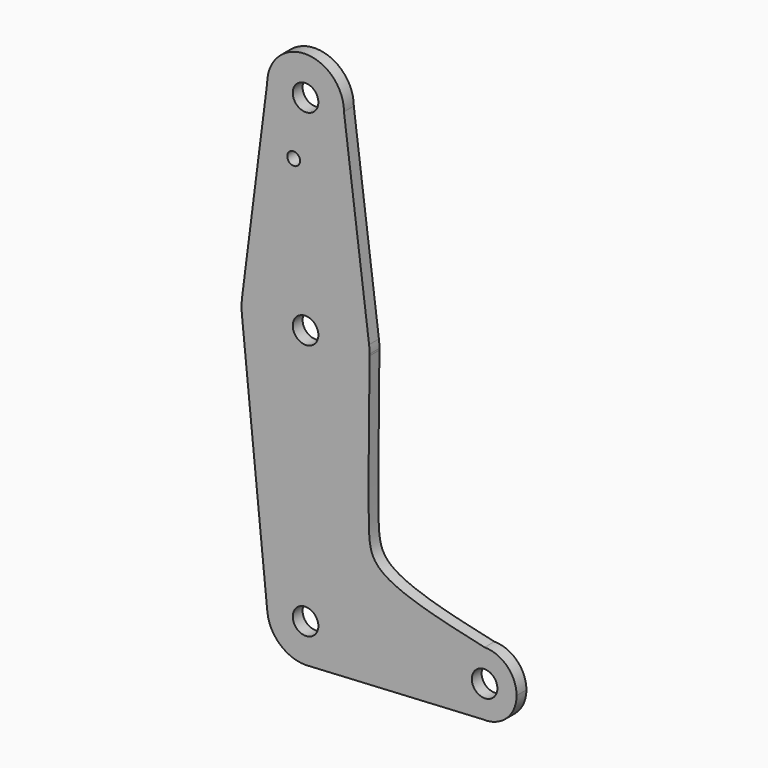
from build123d import *

# Parameters (mm, degrees)
F0_R     = 3.175
F0_R_2   = 1.5875
F1_DEPTH = 3.048


with BuildPart() as f1:
    # F0 (on Front) → F1 (new body)
    with BuildSketch(Plane.XZ):
        with BuildLine():
            add(Edge.make_bspline(
                [(15.875, 0), (15.8732372033, -0.1365743579), (15.8714744066, -0.2731487158), (15.8697119149, -0.4097178745)],
                knots=[0, 0, 0, 0, 0.0040359027, 0.0040359027, 0.0040359027, 0.0040359027], degree=3))
            ThreePointArc((15.875, 0), (15.8430821396, 1.0061676396), (15.7474569047, 2.0082893304))
            ThreePointArc((15.7474569047, 2.0082893304), (0, 15.875), (-15.7474569047, 2.0082893304))
            ThreePointArc((-15.7474569047, 2.0082893304), (-15.875, 0), (-15.7474569047, -2.0082893304))
            ThreePointArc((-15.7474569047, -2.0082893304), (0.8016197645, -15.8547478931), (15.8697119149, -0.4097178745))
        make_face()
        Circle(F0_R, mode=Mode.SUBTRACT)
        with BuildLine():
            ThreePointArc((15.8697119149, -0.4097178745), (15.8736779237, -0.2048759994), (15.875, 0))
            add(Edge.make_bspline(
                [(15.875, 0), (15.8732372033, -0.1365743579), (15.8714744066, -0.2731487158), (15.8697119149, -0.4097178745)],
                knots=[0, 0, 0, 0, 0.0040359027, 0.0040359027, 0.0040359027, 0.0040359027], degree=3))
        make_face()
        with BuildLine():
            ThreePointArc((-15.7474569047, 2.0082893304), (0, 15.875), (15.7474569047, 2.0082893304))
            Line((15.7474569047, 2.0082893304), (9.525, 50.8))
            ThreePointArc((9.525, 50.8), (0, 41.275), (-9.525, 50.8))
            Line((-9.525, 50.8), (-15.7474569047, 2.0082893304))
        make_face()
        with Locations((-2.9496776406, 36.5252)):
            Circle(F0_R_2, mode=Mode.SUBTRACT)
        with BuildLine():
            add(Edge.make_bspline(
                [(15.8697119149, -0.4097178745), (15.6873811422, -14.5378753073), (15.4159472913, -35.8693253106), (16.221504585, -48.4230919996), (33.5230137181, -52.3059412595), (44.3829082704, -54.7431467772)],
                knots=[0.0040359027, 0.0040359027, 0.0040359027, 0.0040359027, 0.421552344, 0.6369171903, 1, 1, 1, 1], degree=3))
            ThreePointArc((15.8697119149, -0.4097178745), (0.8016197645, -15.8547478931), (-15.7474569047, -2.0082893304))
            Line((-15.7474569047, -2.0082893304), (-9.4773410414, -64.4516468803))
            ThreePointArc((-9.4773410414, -64.4516468803), (-0.4764197627, -53.986922201), (9.525, -63.5))
            ThreePointArc((9.525, -63.5), (7.0949392109, -69.8551131063), (1.0446928936, -72.9675362032))
            Line((1.0446928936, -72.9675362032), (43.960813643, -70.6069159106))
            ThreePointArc((43.960813643, -70.6069159106), (36.4482164838, -62.4695247705), (44.3829082704, -54.7431467772))
        make_face()
        with BuildLine():
            ThreePointArc((-9.525, 50.8), (0, 41.275), (9.525, 50.8))
            ThreePointArc((9.525, 50.8), (0, 60.325), (-9.525, 50.8))
        make_face()
        with Locations((0, 50.8)):
            Circle(F0_R, mode=Mode.SUBTRACT)
        with BuildLine():
            ThreePointArc((52.3204082704, -62.6806467772), (49.995568346, -57.0679867015), (44.3829082704, -54.7431467772))
            ThreePointArc((44.3829082704, -54.7431467772), (36.4482164838, -62.4695247705), (43.960813643, -70.6069159106))
            ThreePointArc((43.960813643, -70.6069159106), (49.8442968367, -68.4406069487), (52.3204082704, -62.6806467772))
        make_face()
        with Locations((44.3829082704, -62.6806467772)):
            Circle(F0_R, mode=Mode.SUBTRACT)
        with BuildLine():
            ThreePointArc((9.525, -63.5), (-0.4764197627, -53.986922201), (-9.4773410414, -64.4516468803))
            ThreePointArc((-9.4773410414, -64.4516468803), (-6.3898821767, -70.5636414665), (0, -73.025))
            Line((0, -73.025), (1.0446928936, -72.9675362032))
            ThreePointArc((1.0446928936, -72.9675362032), (7.0949392109, -69.8551131063), (9.525, -63.5))
        make_face()
        with Locations((0, -63.5)):
            Circle(F0_R, mode=Mode.SUBTRACT)
        with BuildLine():
            Line((1.0446928936, -72.9675362032), (0, -73.025))
            ThreePointArc((0, -73.025), (0.5231360554, -73.0106232008), (1.0446928936, -72.9675362032))
        make_face()
    extrude(amount=F1_DEPTH)


solid = f1.part
